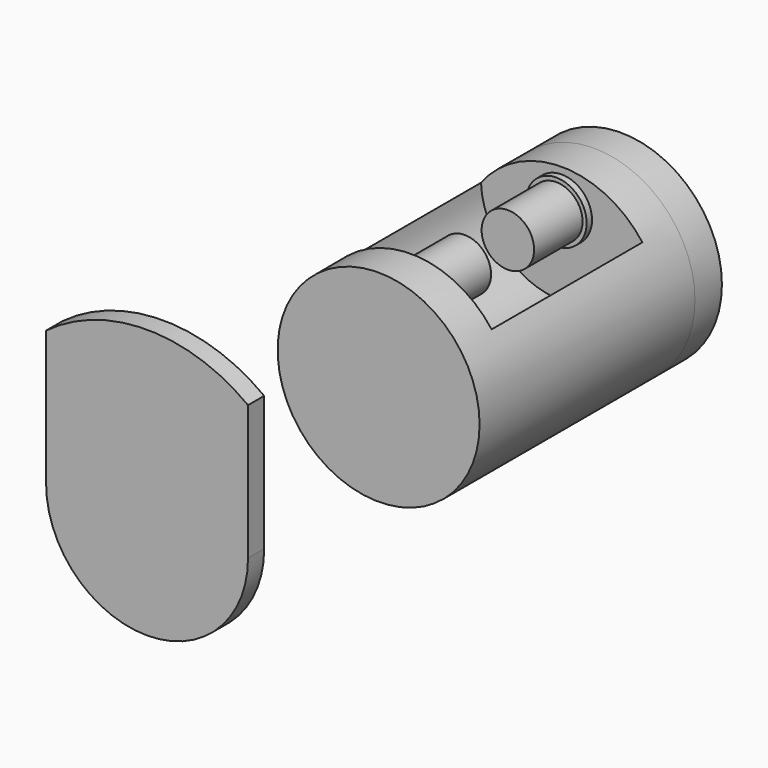
from build123d import *

# Parameters (mm, degrees)
SKETCH_R        = 15
PAD_DEPTH       = 40
SKETCH001_R     = 12
POCKET_DEPTH    = 28
SKETCH002_R     = 3.9
PAD001_DEPTH    = 28
SKETCH003_R     = 4.564184
POCKET001_DEPTH = 4
SKETCH004_R     = 4.5
PAD002_DEPTH    = 1
SKETCH005_R     = 4.5
PAD003_DEPTH    = 1
PAD004_DEPTH    = 3
SKETCH008_R     = 0.5
POCKET002_DEPTH = 10
SKETCH007_R     = 15
SKETCH007_R_2   = 0.5
EXTRUDE_DEPTH   = 5


with BuildPart() as obj1:
    # Sketch → Pad (new body)
    with BuildSketch(Plane.XZ):
        Circle(SKETCH_R)
    extrude(amount=PAD_DEPTH)

    # Sketch001 → Pocket (cut)
    with BuildSketch(Plane.XZ.offset(6)):
        with Locations((0, 9.5)):
            Circle(SKETCH001_R)
    extrude(amount=POCKET_DEPTH, mode=Mode.SUBTRACT)

    # Sketch002 → Pad001 (join)
    with BuildSketch(Plane.XZ.offset(6)):
        with Locations((0, 9.5)):
            Circle(SKETCH002_R)
    extrude(amount=PAD001_DEPTH)

    # Sketch003 → Pocket001 (cut, symmetric)
    with BuildSketch(Plane.XZ.offset(20)):
        with Locations((0, 9.500001)):
            Circle(SKETCH003_R)
    extrude(amount=POCKET001_DEPTH, both=True, mode=Mode.SUBTRACT)

    # Sketch004 → Pad002 (join)
    with BuildSketch(Plane.XZ.offset(6)):
        with Locations((0, 9.5)):
            Circle(SKETCH004_R)
    extrude(amount=PAD002_DEPTH)

    # Sketch005 → Pad003 (join)
    with BuildSketch(Plane.XZ.offset(34)):
        with Locations((0, 9.5)):
            Circle(SKETCH005_R)
    extrude(amount=-PAD003_DEPTH)


with BuildPart() as part_mirroring:
    # Part__Mirroring: instance of obj1
    add(obj1.part.mirror(Plane(origin=(0, 0, 0), x_dir=(1, 0, 0), z_dir=(0, 1, 0))))


with BuildPart() as obj2:
    # Sketch006 → Pad004 (new body)
    with BuildSketch(Plane.XZ.offset(40)):
        with BuildLine():
            ThreePointArc((15, 20), (0, 25), (-15, 20))
            Line((-15, 20), (-15, 0))
            ThreePointArc((-15, 0), (-4e-06, -15), (15, -9e-06))
            Line((15, 20), (15, -9e-06))
        make_face()
    extrude(amount=PAD004_DEPTH)

    # Sketch008 → Pocket002 (cut)
    with BuildSketch(Plane.XZ.offset(-45)):
        with Locations((-12, 0)):
            Circle(SKETCH008_R)
        with Locations((12, 0)):
            Circle(SKETCH008_R)
    extrude(amount=POCKET002_DEPTH, mode=Mode.SUBTRACT)


with BuildPart() as extrude_body:
    # Sketch007 → Extrude (new body)
    with BuildSketch(Plane.XZ.offset(-40)):
        Circle(SKETCH007_R)
        with Locations((-12, 0)):
            Circle(SKETCH007_R_2, mode=Mode.SUBTRACT)
        with Locations((12, 0)):
            Circle(SKETCH007_R_2, mode=Mode.SUBTRACT)
    extrude(amount=-EXTRUDE_DEPTH)


solid = Compound([part_mirroring.part, obj2.part, extrude_body.part])
